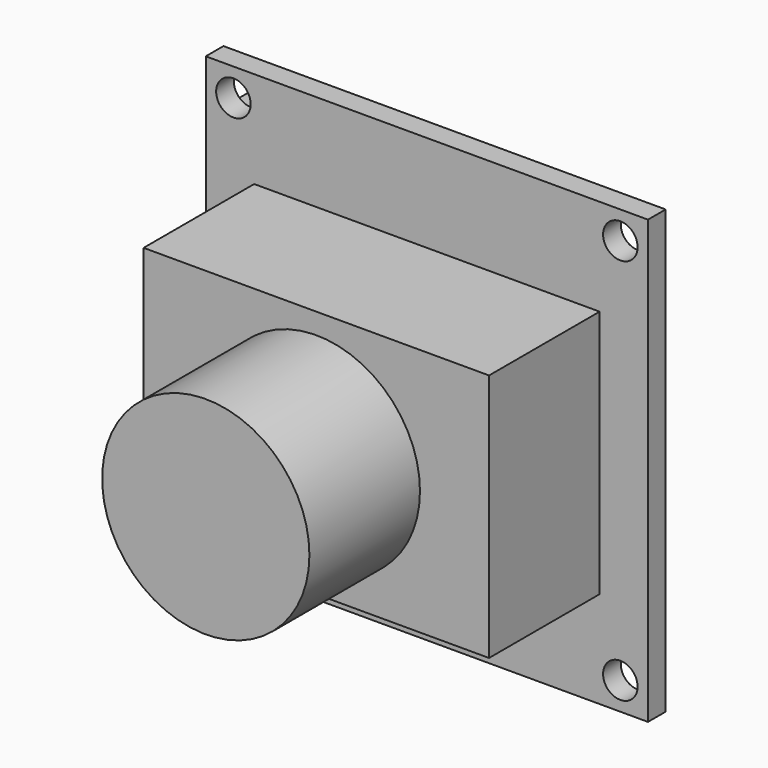
from build123d import *

# Parameters (mm, degrees)
F0_W     = 32
F0_H     = 32
F1_DEPTH = 1.6
F2_W     = 25
F2_H     = 18
F3_DEPTH = 10
F4_R     = 7.5
F5_DEPTH = 10
F6_W     = 4
F6_H     = 10.84
F6_H_2   = 6
F7_DEPTH = 5
F8_R     = 1.25
F9_DEPTH = 25


with BuildPart() as f1:
    # F0 (on Front) → F1 (new body)
    with BuildSketch(Plane.XZ):
        Rectangle(F0_W, F0_H)
    extrude(amount=F1_DEPTH)

    # F2 (on face) → F3 (join)
    with BuildSketch(Plane.XZ.offset(1.6)):
        Rectangle(F2_W, F2_H)
    extrude(amount=F3_DEPTH)

    # F4 (on face) → F5 (join)
    with BuildSketch(Plane.XZ.offset(11.6)):
        Circle(F4_R)
    extrude(amount=F5_DEPTH)

    # F6 (on face) → F7 (join)
    with BuildSketch(Plane(origin=(0, 0, 0), x_dir=(-1, 0, 0), z_dir=(0, 1, 0))):
        with Locations((14, 6.7)):
            Rectangle(F6_W, F6_H)
        with Locations((14, -8.5)):
            Rectangle(F6_W, F6_H_2)
    extrude(amount=F7_DEPTH)

    # F8 (on face) → F9 (cut)
    with BuildSketch(Plane.XZ.offset(1.6)):
        with Locations((14, 14)):
            Circle(F8_R)
        with Locations((14, -14)):
            Circle(F8_R)
        with Locations((-14, -14)):
            Circle(F8_R)
        with Locations((-14, 14)):
            Circle(F8_R)
    extrude(amount=-F9_DEPTH, mode=Mode.SUBTRACT)


solid = f1.part
